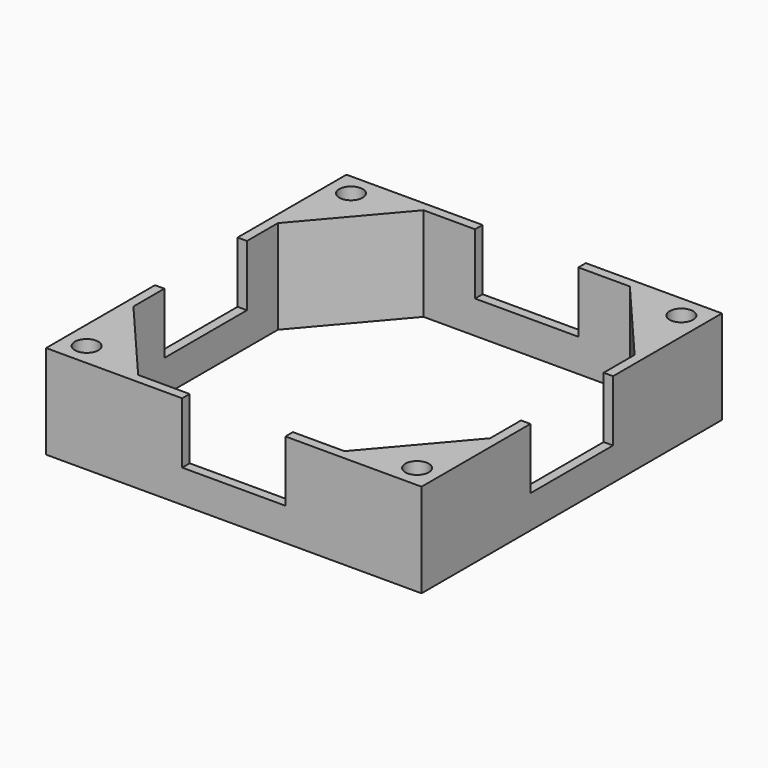
from build123d import *

# Parameters (mm, degrees)
F0_W     = 40
F0_H     = 40
F1_DEPTH = 10
F2_T     = -1
F3_R     = 1.25
F4_DEPTH = 10
F5_DEPTH = 25
F6_DEPTH = 25
F7_W     = 11
F7_H     = 1
F7_W_2   = 1
F7_H_2   = 11
F8_DEPTH = 6.5


with BuildPart() as f1:
    # F0 (on Top) → F1 (new body)
    with BuildSketch(Plane.XY):
        Rectangle(F0_W, F0_H)
    extrude(amount=F1_DEPTH)

    # F2
    f2_openings = [f1.faces().sort_by_distance(p)[0] for p in [
        (0, 0, 10),
    ]]
    offset(amount=F2_T, openings=f2_openings)

    # F3 (on face) → F4 (join)
    with BuildSketch(Plane.XY):
        Polygon((-20, -8.4495466982), (-20, -20), (-10.1382084124, -20), align=None)
        with Locations((-17.6, -17.6)):
            Circle(F3_R, mode=Mode.SUBTRACT)
        Polygon((20, -8.4495466982), (10.1382084124, -20), (20, -20), align=None)
        with Locations((17.6, -17.6)):
            Circle(F3_R, mode=Mode.SUBTRACT)
        Polygon((-20, 20), (-20, 8.4495466982), (-10.1382084124, 20), align=None)
        with Locations((-17.6, 17.6)):
            Circle(F3_R, mode=Mode.SUBTRACT)
        Polygon((20, 20), (10.1382084124, 20), (20, 8.4495466982), align=None)
        with Locations((17.6, 17.6)):
            Circle(F3_R, mode=Mode.SUBTRACT)
    extrude(amount=F4_DEPTH)

    # F3 (on face) → F5 (cut)
    with BuildSketch(Plane.XY):
        with Locations((-17.6, -17.6)):
            Circle(F3_R)
        with Locations((17.6, -17.6)):
            Circle(F3_R)
        with Locations((17.6, 17.6)):
            Circle(F3_R)
        with Locations((-17.6, 17.6)):
            Circle(F3_R)
    extrude(amount=F5_DEPTH, mode=Mode.SUBTRACT)

    # F6 (cut): a face of the model
    f6_faces = [f1.faces().sort_by_distance(p)[0] for p in [
        (0, 0, 1),
    ]]
    extrude(f6_faces, amount=-F6_DEPTH, mode=Mode.SUBTRACT)

    # F7 (on face) → F8 (cut)
    with BuildSketch(Plane.XY.offset(10)):
        with Locations((0, 19.5)):
            Rectangle(F7_W, F7_H)
        with Locations((0, -19.5)):
            Rectangle(F7_W, F7_H)
        with Locations((-19.5, 0)):
            Rectangle(F7_W_2, F7_H_2)
        with Locations((19.5, 0)):
            Rectangle(F7_W_2, F7_H_2)
    extrude(amount=-F8_DEPTH, mode=Mode.SUBTRACT)


solid = f1.part
